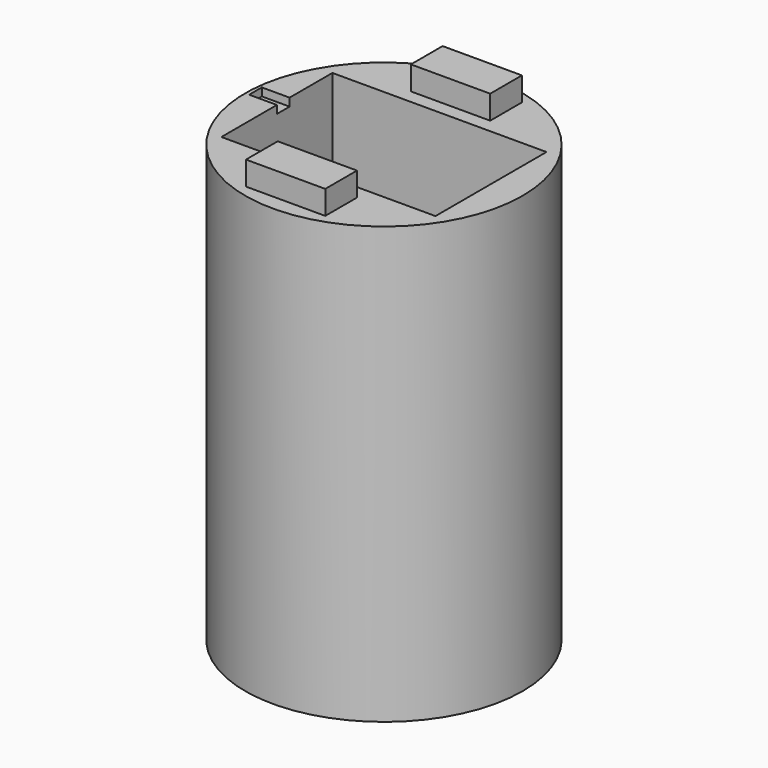
from build123d import *

# Parameters (mm, degrees)
BOX003_W       = 4
BOX003_H       = 2
BOX003_DEPTH   = 2
BOX_W          = 27
BOX_H          = 17.5
BOX_DEPTH      = 53
CYLINDER_R     = 17.5
CYLINDER_DEPTH = 55
BOX001_W       = 10
BOX001_H       = 5
BOX001_DEPTH   = 3
BOX002_W       = 10
BOX002_H       = 5
BOX002_DEPTH   = 3


with BuildPart() as box003:
    # Box003 → Box003 (new body)
    with BuildSketch(Plane(origin=(-17, 0, 54), x_dir=(1, 0, 0), z_dir=(0, 0, 1))):
        with Locations((2, 1)):
            Rectangle(BOX003_W, BOX003_H)
    extrude(amount=BOX003_DEPTH)


with BuildPart() as box:
    # Box → Box (new body)
    with BuildSketch(Plane(origin=(-13.5, -8.75, 2), x_dir=(1, 0, 0), z_dir=(0, 0, 1))):
        with Locations((13.5, 8.75)):
            Rectangle(BOX_W, BOX_H)
    extrude(amount=BOX_DEPTH)


with BuildPart() as cut:
    # Cylinder → Cylinder (new body)
    with BuildSketch(Plane.XY):
        Circle(CYLINDER_R)
    extrude(amount=CYLINDER_DEPTH)

    # Cut: cut Box
    add(box.part, mode=Mode.SUBTRACT)


with BuildPart() as fusion:
    # Box001 → Box001 (new body)
    with BuildSketch(Plane(origin=(-5, 10.5, 55), x_dir=(1, 0, 0), z_dir=(0, 0, 1))):
        with Locations((5, 2.5)):
            Rectangle(BOX001_W, BOX001_H)
    extrude(amount=BOX001_DEPTH)

    # Fusion: union Cut
    add(cut.part)


with BuildPart() as cut001:
    # Box002 → Box002 (new body)
    with BuildSketch(Plane(origin=(-5, -15.5, 55), x_dir=(1, 0, 0), z_dir=(0, 0, 1))):
        with Locations((5, 2.5)):
            Rectangle(BOX002_W, BOX002_H)
    extrude(amount=BOX002_DEPTH)

    # Fusion001: union Fusion
    add(fusion.part)

    # Cut001: cut Box003
    add(box003.part, mode=Mode.SUBTRACT)


solid = cut001.part
